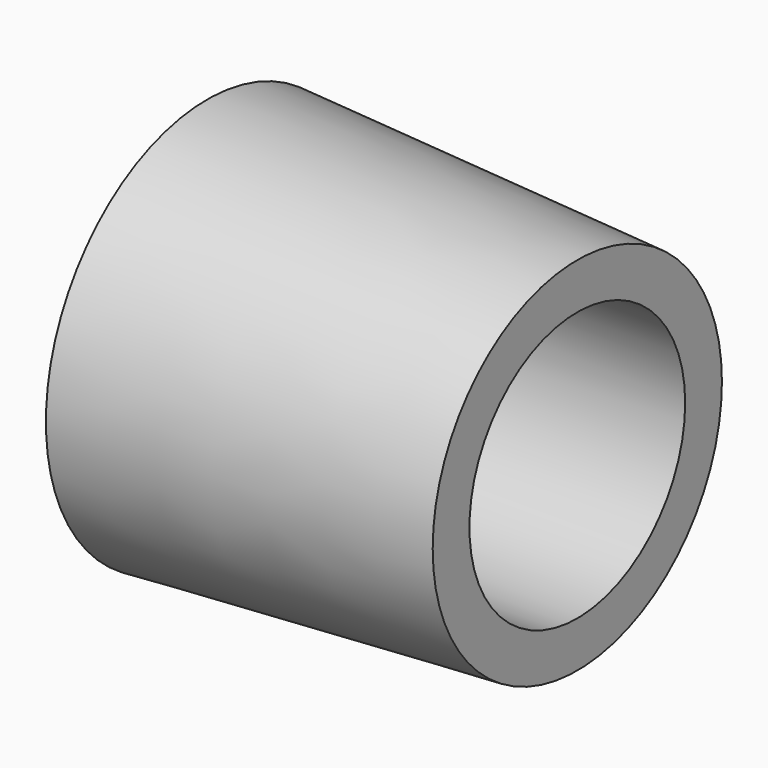
from build123d import *


with BuildPart() as part:
    # Sketch → Revolution (revolve)
    with BuildSketch(Plane.XY):
        Polygon((2.195, 1.6), (-2.195, 1.6), (-2.195, 2.395), (2.195, 2.145), align=None)
    revolve(axis=Axis((0, 0, 0), (1, 0, 0)))


solid = part.part
